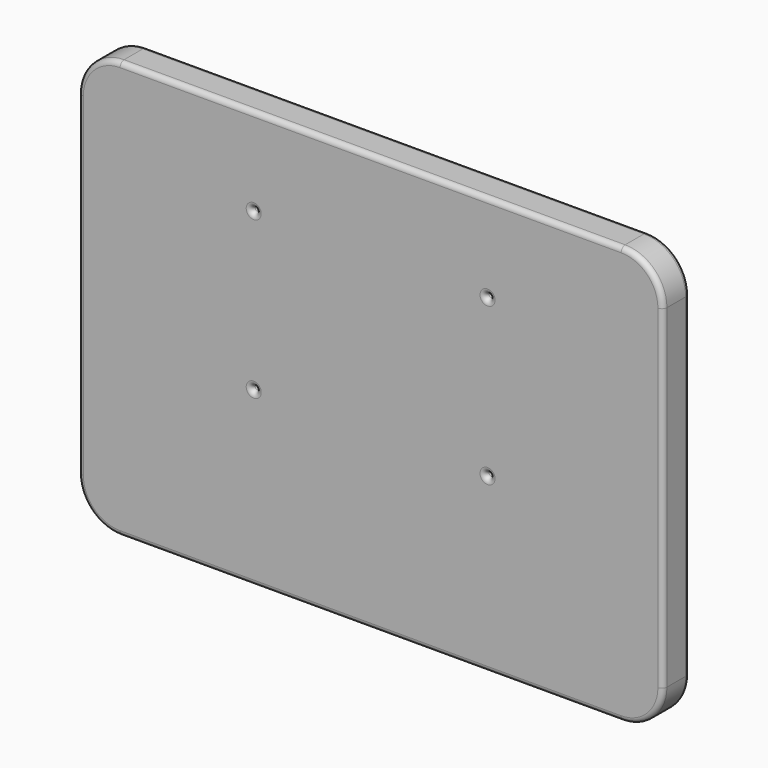
from build123d import *

# Parameters (mm, degrees)
F0_R     = 1.5
F1_DEPTH = 10
F2_R     = 3


with BuildPart() as f1:
    # F0 (on Front) → F1 (new body, symmetric)
    with BuildSketch(Plane.XZ):
        with BuildLine():
            Line((150, 203.4788914025), (0, 203.4788914025))
            Line((0, 203.4788914025), (-150, 203.4788914025))
            ThreePointArc((-150, 203.4788914025), (-167.6776695297, 196.1565609321), (-175, 178.4788914025))
            Line((-175, 178.4788914025), (-175, -21.5211085975))
            ThreePointArc((-175, -21.5211085975), (-167.6776695297, -39.1987781272), (-150, -46.5211085975))
            Line((-150, -46.5211085975), (0, -46.5211085975))
            Line((0, -46.5211085975), (150, -46.5211085975))
            ThreePointArc((150, -46.5211085975), (167.6776695297, -39.1987781272), (175, -21.5211085975))
            Line((175, -21.5211085975), (175, 178.4788914025))
            ThreePointArc((175, 178.4788914025), (167.6776695297, 196.1565609321), (150, 203.4788914025))
        make_face()
        with Locations((-70, 56.8050378919)):
            Circle(F0_R, mode=Mode.SUBTRACT)
        with BuildLine():
            ThreePointArc((71.5, 56.8050378919), (70, 55.3050378919), (68.5, 56.8050378919))
            ThreePointArc((68.5, 56.8050378919), (70, 58.3050378919), (71.5, 56.8050378919))
        make_face(mode=Mode.SUBTRACT)
        with Locations((-70, 150.9050378919)):
            Circle(F0_R, mode=Mode.SUBTRACT)
        with BuildLine():
            ThreePointArc((71.5, 150.9050378919), (70, 149.4050378919), (68.5, 150.9050378919))
            ThreePointArc((68.5, 150.9050378919), (70, 152.4050378919), (71.5, 150.9050378919))
        make_face(mode=Mode.SUBTRACT)
    extrude(amount=F1_DEPTH, both=True)

    # F2
    f2_edges = [f1.edges().sort_by_distance(p)[0] for p in [
        (0, -10, 203.478891),
        (-167.67767, -10, 196.156561),
        (-175, -10, 78.478891),
        (-167.67767, -10, -39.198778),
        (0, -10, -46.521109),
        (167.67767, -10, -39.198778),
        (175, -10, 78.478891),
        (167.67767, -10, 196.156561),
        (-71.5, -10, 56.805038),
        (71.5, -10, 56.805038),
        (-71.5, -10, 150.905038),
        (71.5, -10, 150.905038),
        (0, 10, 203.478891),
        (-167.67767, 10, 196.156561),
        (-175, 10, 78.478891),
        (-167.67767, 10, -39.198778),
        (0, 10, -46.521109),
        (167.67767, 10, -39.198778),
        (175, 10, 78.478891),
        (167.67767, 10, 196.156561),
        (-71.5, 10, 56.805038),
        (71.5, 10, 56.805038),
        (-71.5, 10, 150.905038),
        (71.5, 10, 150.905038),
    ]]
    fillet(f2_edges, radius=F2_R)


solid = f1.part
